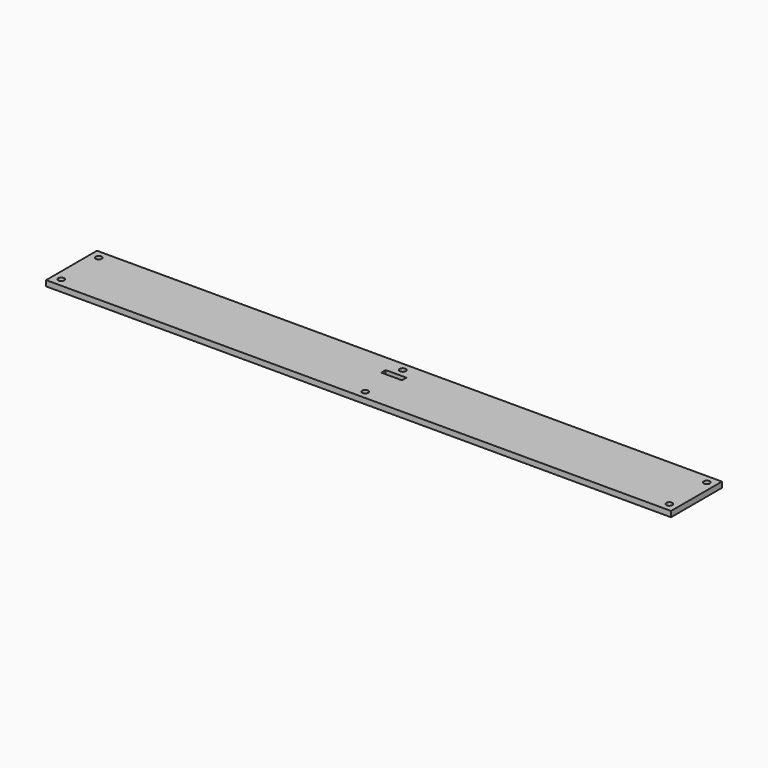
from build123d import *

# Parameters (mm, degrees)
F0_W     = 355.6
F0_H     = 36.195
F0_R     = 1.7272
F0_W_2   = 11.759848
F0_H_2   = 3.175
F1_DEPTH = 3.175


with BuildPart() as f1:
    # F0 (on Top) → F1 (new body)
    with BuildSketch(Plane.XY):
        Rectangle(F0_W, F0_H)
        with Locations((-173.0375, -13.335)):
            Circle(F0_R, mode=Mode.SUBTRACT)
        with Locations((0, -13.335)):
            Circle(F0_R, mode=Mode.SUBTRACT)
        with Locations((173.0375, -13.335)):
            Circle(F0_R, mode=Mode.SUBTRACT)
        with Locations((-173.0375, 13.335)):
            Circle(F0_R, mode=Mode.SUBTRACT)
        with Locations((0, 6.985)):
            Rectangle(F0_W_2, F0_H_2, mode=Mode.SUBTRACT)
        with Locations((0, 13.335)):
            Circle(F0_R, mode=Mode.SUBTRACT)
        with Locations((173.0375, 13.335)):
            Circle(F0_R, mode=Mode.SUBTRACT)
    extrude(amount=F1_DEPTH)


solid = f1.part
